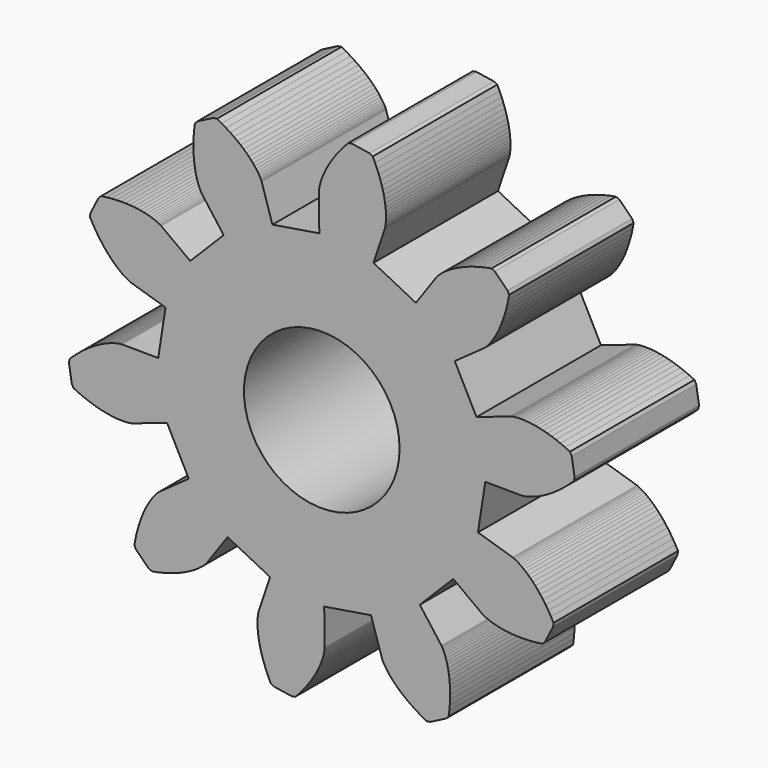
from build123d import *

# Parameters (mm, degrees)
F0_R     = 4
F1_DEPTH = 8


with BuildPart() as f1:
    # F0 (on Front) → F1 (new body)
    with BuildSketch(Plane.XZ):
        Polygon((-8.032278, 2.478022), (-8.405573, 0.066469), (-10.259556, 0.08111), (-10.272047, 0.080737), (-10.296996, 0.079156), (-10.334312, 0.075495), (-10.38387, 0.068891), (-10.445492, 0.058492), (-10.51896, 0.043444), (-10.60401, 0.022914), (-10.700333, -0.003921), (-10.807576, -0.03787), (-10.925349, -0.079722), (-11.053216, -0.130251), (-11.190697, -0.190202), (-11.337279, -0.260306), (-11.492409, -0.341265), (-11.65549, -0.433751), (-11.825899, -0.538412), (-12.002966, -0.655862), (-12.185995, -0.786686), (-12.374259, -0.931438), (-12.566994, -1.090626), (-12.76341, -1.264736), (-12.962688, -1.454207), (-12.997141, -1.638405), (-12.849767, -2.548235), (-12.758928, -2.712138), (-12.510031, -2.829013), (-12.268696, -2.932217), (-12.035563, -3.022426), (-11.811232, -3.100343), (-11.596265, -3.166703), (-11.391175, -3.222253), (-11.196441, -3.267768), (-11.012503, -3.304043), (-10.839749, -3.331892), (-10.678531, -3.352139), (-10.529152, -3.365625), (-10.391874, -3.373205), (-10.266913, -3.375739), (-10.154436, -3.3741), (-10.054569, -3.369155), (-9.967386, -3.361788), (-9.892925, -3.352872), (-9.831169, -3.34329), (-9.782063, -3.333912), (-9.745497, -3.325604), (-9.721325, -3.319231), (-9.709356, -3.315642), (-7.954793, -2.716492), (-6.83932, -4.886897), (-8.347831, -5.964795), (-8.357717, -5.97244), (-8.376969, -5.988385), (-8.405008, -6.01328), (-8.441221, -6.047752), (-8.484959, -6.092386), (-8.535552, -6.147742), (-8.592293, -6.214341), (-8.654445, -6.292668), (-8.721252, -6.383171), (-8.791932, -6.486256), (-8.865678, -6.60229), (-8.941664, -6.731602), (-9.019048, -6.874479), (-9.096964, -7.031156), (-9.174538, -7.201837), (-9.250882, -7.386673), (-9.325098, -7.58577), (-9.396273, -7.799192), (-9.463501, -8.026955), (-9.525854, -8.269029), (-9.582421, -8.525337), (-9.632275, -8.795754), (-9.55188, -8.965025), (-8.897865, -9.614472), (-8.728035, -9.693677), (-8.457973, -9.641931), (-8.20207, -9.583571), (-7.960438, -9.519521), (-7.733151, -9.450701), (-7.520232, -9.37803), (-7.321661, -9.302419), (-7.137366, -9.224782), (-6.967234, -9.146012), (-6.811104, -9.067), (-6.668777, -8.988619), (-6.539998, -8.911729), (-6.424481, -8.837171), (-6.321897, -8.76577), (-6.231865, -8.69833), (-6.153975, -8.635632), (-6.087775, -8.578425), (-6.032773, -8.527447), (-5.988447, -8.483394), (-5.954232, -8.446944), (-5.92953, -8.418731), (-5.913722, -8.399366), (-5.906147, -8.389424), (-4.838849, -6.873398), (-2.66068, -7.973633), (-3.247518, -9.732351), (-3.251022, -9.74435), (-3.257227, -9.768566), (-3.265275, -9.805186), (-3.27431, -9.854359), (-3.283462, -9.91618), (-3.291855, -9.990701), (-3.298611, -10.077932), (-3.302853, -10.177832), (-3.303706, -10.290318), (-3.300296, -10.415258), (-3.291755, -10.55248), (-3.277222, -10.70176), (-3.255845, -10.862831), (-3.226787, -11.035387), (-3.189223, -11.219067), (-3.142344, -11.413474), (-3.085358, -11.61817), (-3.017495, -11.832669), (-2.938006, -12.05645), (-2.846166, -12.288943), (-2.741271, -12.529549), (-2.622657, -12.777623), (-2.45812, -12.867312), (-1.54728, -13.008303), (-1.363329, -12.972559), (-1.175259, -12.771959), (-1.002532, -12.574327), (-0.844695, -12.380483), (-0.701269, -12.191209), (-0.571728, -12.007266), (-0.455522, -11.82938), (-0.352058, -11.658243), (-0.260718, -11.494519), (-0.180848, -11.338823), (-0.111772, -11.191754), (-0.052785, -11.053854), (-0.003155, -10.925639), (0.037872, -10.807575), (0.071067, -10.700097), (0.097225, -10.603587), (0.11716, -10.518398), (0.13169, -10.444827), (0.14166, -10.383131), (0.147914, -10.333529), (0.151314, -10.296187), (0.152723, -10.271229), (0.153009, -10.258734), (0.125374, -8.404898), (2.534252, -8.014713), (3.093236, -9.782481), (3.097453, -9.794246), (3.106669, -9.817484), (3.121682, -9.851844), (3.143275, -9.896936), (3.172208, -9.952327), (3.209222, -10.017549), (3.255027, -10.092092), (3.310314, -10.175409), (3.375741, -10.266912), (3.451939, -10.365987), (3.539509, -10.471981), (3.63901, -10.584209), (3.750981, -10.701954), (3.875914, -10.824471), (4.014269, -10.950995), (4.166466, -11.080717), (4.332884, -11.212824), (4.513867, -11.346471), (4.709707, -11.480789), (4.920664, -11.614896), (5.146947, -11.747896), (5.388724, -11.878873), (5.574554, -11.854721), (6.394313, -11.433406), (6.522124, -11.296365), (6.556364, -11.023531), (6.579939, -10.762119), (6.593693, -10.512521), (6.598476, -10.275091), (6.595155, -10.050137), (6.584611, -9.837918), (6.567725, -9.638652), (6.545384, -9.452505), (6.518487, -9.279603), (6.487921, -9.120018), (6.454591, -8.973783), (6.419376, -8.840882), (6.383173, -8.721251), (6.346855, -8.614788), (6.31129, -8.521334), (6.277342, -8.440697), (6.245857, -8.372634), (6.217657, -8.316865), (6.193561, -8.273057), (6.174365, -8.240849), (6.160832, -8.21983), (6.153721, -8.209552), (5.041705, -6.726013), (6.761183, -4.994445), (8.252479, -6.096034), (8.262805, -6.103076), (8.283919, -6.116458), (8.316261, -6.135431), (8.360234, -6.159218), (8.416202, -6.187024), (8.484482, -6.218036), (8.565355, -6.251416), (8.659055, -6.286323), (8.765772, -6.321896), (8.885652, -6.357259), (9.018799, -6.391541), (9.165262, -6.423849), (9.325057, -6.453291), (9.498146, -6.478978), (9.684444, -6.500013), (9.883825, -6.515502), (10.096111, -6.52456), (10.321084, -6.526306), (10.558471, -6.519861), (10.807967, -6.504358), (11.06921, -6.478952), (11.341798, -6.442799), (11.47794, -6.314034), (11.8935, -5.491339), (11.916347, -5.305347), (11.783681, -5.064495), (11.649097, -4.839148), (11.513515, -4.629134), (11.377826, -4.43424), (11.242917, -4.254199), (11.109648, -4.088709), (10.978858, -3.937426), (10.851371, -3.799961), (10.72798, -3.67589), (10.609452, -3.564749), (10.496531, -3.466035), (10.389925, -3.379211), (10.29032, -3.303709), (10.19836, -3.238924), (10.114658, -3.184223), (10.039797, -3.138942), (9.974315, -3.102385), (9.918723, -3.073841), (9.873479, -3.052562), (9.839018, -3.037791), (9.815715, -3.028741), (9.803918, -3.024606), (8.032279, -2.478022), (8.405574, -0.06647), (10.259556, -0.081111), (10.272047, -0.080738), (10.296996, -0.079157), (10.334312, -0.075496), (10.383871, -0.068892), (10.445493, -0.058493), (10.518961, -0.043445), (10.60401, -0.022914), (10.700334, 0.00392), (10.807577, 0.03787), (10.92535, 0.079721), (11.053217, 0.13025), (11.190698, 0.190201), (11.337279, 0.260305), (11.492409, 0.341264), (11.655491, 0.43375), (11.8259, 0.538411), (12.002967, 0.655861), (12.185996, 0.786686), (12.37426, 0.931437), (12.566995, 1.090625), (12.76341, 1.264736), (12.962689, 1.454206), (12.997142, 1.638404), (12.849768, 2.548234), (12.758929, 2.712137), (12.510032, 2.829013), (12.268696, 2.932217), (12.035564, 3.022426), (11.811233, 3.100343), (11.596266, 3.166703), (11.391176, 3.222252), (11.196441, 3.267767), (11.012504, 3.304043), (10.839749, 3.331891), (10.678532, 3.352139), (10.529153, 3.365624), (10.391875, 3.373204), (10.266914, 3.375738), (10.154437, 3.374099), (10.054569, 3.369154), (9.967387, 3.361787), (9.892926, 3.352872), (9.83117, 3.343289), (9.782064, 3.333911), (9.745497, 3.325603), (9.721326, 3.319231), (9.709356, 3.315641), (7.954793, 2.716491), (6.83932, 4.886896), (8.347831, 5.964794), (8.357717, 5.972439), (8.37697, 5.988384), (8.405008, 6.013279), (8.441222, 6.047751), (8.48496, 6.092386), (8.535553, 6.147741), (8.592293, 6.21434), (8.654445, 6.292667), (8.721253, 6.38317), (8.791932, 6.486256), (8.865678, 6.602289), (8.941665, 6.731602), (9.019049, 6.874478), (9.096964, 7.031156), (9.174539, 7.201837), (9.250882, 7.386673), (9.325099, 7.585769), (9.396274, 7.799191), (9.463502, 8.026954), (9.525855, 8.269028), (9.582422, 8.525336), (9.632275, 8.795754), (9.55188, 8.965024), (8.897865, 9.614471), (8.728036, 9.693676), (8.457974, 9.64193), (8.202071, 9.58357), (7.960438, 9.519521), (7.733152, 9.4507), (7.520233, 9.378029), (7.321662, 9.302418), (7.137367, 9.224782), (6.967234, 9.146011), (6.811104, 9.067), (6.668777, 8.988619), (6.539998, 8.911729), (6.424482, 8.837171), (6.321898, 8.765769), (6.231866, 8.69833), (6.153976, 8.635631), (6.087776, 8.578424), (6.032774, 8.527447), (5.988447, 8.483393), (5.954232, 8.446944), (5.929531, 8.418731), (5.913723, 8.399366), (5.906148, 8.389423), (4.838849, 6.873397), (2.660681, 7.973633), (3.247519, 9.73235), (3.251023, 9.744349), (3.257227, 9.768565), (3.265276, 9.805186), (3.274311, 9.854359), (3.283462, 9.916179), (3.291856, 9.9907), (3.298611, 10.077932), (3.302853, 10.177831), (3.303707, 10.290318), (3.300296, 10.415257), (3.291756, 10.552479), (3.277222, 10.701759), (3.255845, 10.86283), (3.226788, 11.035386), (3.189224, 11.219066), (3.142345, 11.413474), (3.085359, 11.61817), (3.017495, 11.832669), (2.938006, 12.05645), (2.846167, 12.288942), (2.741272, 12.529548), (2.622657, 12.777622), (2.458121, 12.867312), (1.54728, 13.008302), (1.36333, 12.972558), (1.175259, 12.771958), (1.002533, 12.574326), (0.844696, 12.380483), (0.701269, 12.191209), (0.571729, 12.007265), (0.455523, 11.82938), (0.352059, 11.658242), (0.260718, 11.494518), (0.180849, 11.338822), (0.111773, 11.191753), (0.052786, 11.053853), (0.003156, 10.925639), (-0.037871, 10.807575), (-0.071066, 10.700096), (-0.097225, 10.603586), (-0.117159, 10.518398), (-0.13169, 10.444826), (-0.141659, 10.38313), (-0.147914, 10.333529), (-0.151314, 10.296187), (-0.152723, 10.271228), (-0.153008, 10.258733), (-0.125373, 8.404898), (-2.534251, 8.014712), (-3.093235, 9.782481), (-3.097452, 9.794245), (-3.106668, 9.817483), (-3.121681, 9.851843), (-3.143274, 9.896935), (-3.172207, 9.952326), (-3.209221, 10.017548), (-3.255027, 10.092091), (-3.310313, 10.175408), (-3.37574, 10.266911), (-3.451938, 10.365986), (-3.539508, 10.47198), (-3.639009, 10.584209), (-3.75098, 10.701953), (-3.875913, 10.82447), (-4.014268, 10.950994), (-4.166465, 11.080716), (-4.332883, 11.212823), (-4.513866, 11.34647), (-4.709706, 11.480788), (-4.920663, 11.614895), (-5.146946, 11.747895), (-5.388723, 11.878872), (-5.574554, 11.85472), (-6.394313, 11.433405), (-6.522123, 11.296364), (-6.556364, 11.023531), (-6.579938, 10.762118), (-6.593693, 10.51252), (-6.598475, 10.27509), (-6.595155, 10.050136), (-6.58461, 9.837918), (-6.567724, 9.638651), (-6.545383, 9.452504), (-6.518486, 9.279602), (-6.48792, 9.120017), (-6.45459, 8.973782), (-6.419376, 8.840881), (-6.383172, 8.72125), (-6.346855, 8.614788), (-6.311289, 8.521333), (-6.277342, 8.440697), (-6.245856, 8.372634), (-6.217656, 8.316865), (-6.19356, 8.273056), (-6.174364, 8.240848), (-6.160831, 8.219829), (-6.15372, 8.209552), (-5.041704, 6.726012), (-6.761182, 4.994444), (-8.252478, 6.096034), (-8.262805, 6.103075), (-8.283918, 6.116457), (-8.31626, 6.13543), (-8.360234, 6.159218), (-8.416202, 6.187024), (-8.484481, 6.218035), (-8.565355, 6.251416), (-8.659055, 6.286323), (-8.765771, 6.321896), (-8.885651, 6.357258), (-9.018798, 6.39154), (-9.165261, 6.423848), (-9.325056, 6.453291), (-9.498145, 6.478977), (-9.684444, 6.500012), (-9.883824, 6.515502), (-10.09611, 6.524559), (-10.321083, 6.526305), (-10.558471, 6.519861), (-10.807966, 6.504358), (-11.069209, 6.478952), (-11.341797, 6.442798), (-11.477939, 6.314033), (-11.893499, 5.491339), (-11.916346, 5.305346), (-11.78368, 5.064494), (-11.649097, 4.839147), (-11.513514, 4.629133), (-11.377825, 4.43424), (-11.242916, 4.254198), (-11.109647, 4.088708), (-10.978857, 3.937425), (-10.85137, 3.79996), (-10.727979, 3.67589), (-10.609451, 3.564748), (-10.49653, 3.466035), (-10.389924, 3.37921), (-10.290319, 3.303708), (-10.198359, 3.238923), (-10.114657, 3.184222), (-10.039796, 3.138941), (-9.974315, 3.102384), (-9.918723, 3.073841), (-9.873478, 3.052562), (-9.839017, 3.03779), (-9.815714, 3.02874), (-9.803917, 3.024605), align=None)
        with Locations((0, 1e-06)):
            Circle(F0_R, mode=Mode.SUBTRACT)
    extrude(amount=F1_DEPTH)


solid = f1.part
